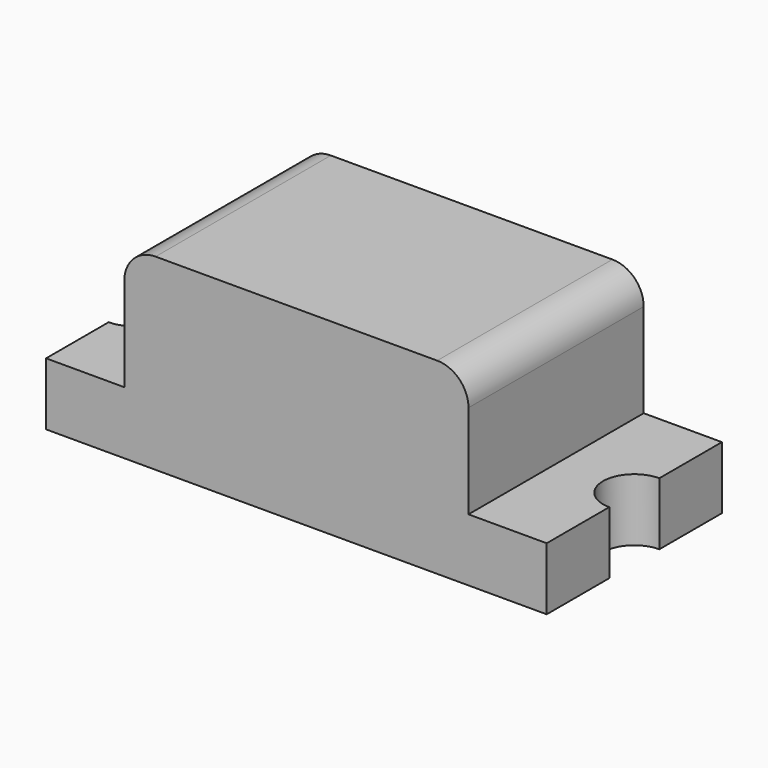
from build123d import *

# Parameters (mm, degrees)
F0_W     = 1.1
F0_H     = 0.4
F1_DEPTH = 0.7
F2_R     = 0.1
F4_DEPTH = 25
F5_SCALE = 15


with BuildPart() as f1:
    # F0 (on Front) → F1 (new body)
    with BuildSketch(Plane.XZ):
        with Locations((0, 0.2)):
            Rectangle(F0_W, F0_H)
        Polygon((0.55, 0), (-0.55, 0), (-0.8, 0), (-0.8, -0.2), (0.8, -0.2), (0.8, 0), align=None)
    extrude(amount=F1_DEPTH)

    # F2
    f2_edges = [f1.edges().sort_by_distance(p)[0] for p in [
        (-0.55, -0.35, 0.4),
        (0.55, -0.35, 0.4),
    ]]
    fillet(f2_edges, radius=F2_R)

    # F3 (on face) → F4 (cut)
    with BuildSketch(Plane.XY):
        with BuildLine():
            Line((-0.8, -0.25), (-0.8, -0.45))
            ThreePointArc((-0.8, -0.45), (-0.7, -0.35), (-0.8, -0.25))
        make_face()
        with BuildLine():
            Line((0.8, -0.45), (0.8, -0.25))
            ThreePointArc((0.8, -0.25), (0.7, -0.35), (0.8, -0.45))
        make_face()
    extrude(amount=-F4_DEPTH, mode=Mode.SUBTRACT)


with BuildPart() as f1_1:
    # F5: moved
    add(f1.part.scale(F5_SCALE))


solid = f1_1.part
